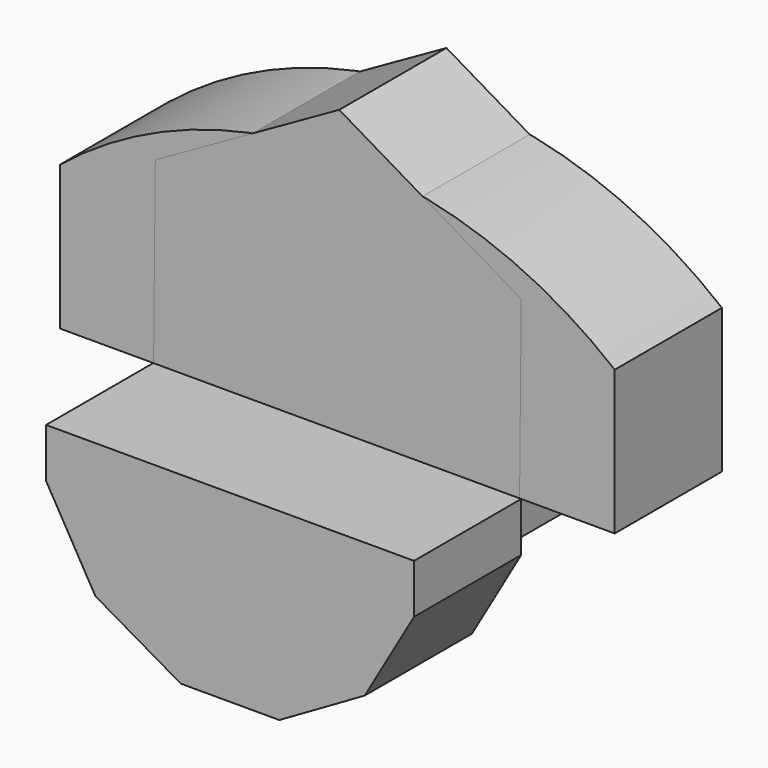
from build123d import *

# Parameters (mm, degrees)
F0_W     = 105.172158
F0_H     = 27.329684
F1_DEPTH = 25.4
F3_DEPTH = 25.4
F5_DEPTH = 25.4


with BuildPart() as f1:
    # F0 (on Front) → F1 (new body)
    with BuildSketch(Plane.XZ):
        Rectangle(F0_W, F0_H)
        with BuildLine():
            Line((-52.586079, 13.664842), (52.586079, 13.664842))
            ThreePointArc((52.586079, 13.664842), (0, 32.342827), (-52.586079, 13.664842))
        make_face()
    extrude(amount=F1_DEPTH)


with BuildPart() as f3:
    # F2 (on face) → F3 (new body)
    with BuildSketch(Plane.XZ.offset(25.4)):
        Polygon((-9.343094, -48.533744), (9.343094, -48.533744), (25.525808, -39.19065), (34.868903, -23.007936), (34.868903, -13.664842), (-34.868903, -13.664842), (-34.868903, -23.007936), (-25.525808, -39.19065), align=None)
    extrude(amount=F3_DEPTH)


with BuildPart() as f5:
    # F4 (on Front) → F5 (new body)
    with BuildSketch(Plane.XZ):
        Polygon((-34.491878, 20.349247), (-34.868903, -19.696219), (-0.377026, -40.045466), (34.491878, -20.349247), (34.868903, 19.696219), (0.377026, 40.045466), align=None)
    extrude(amount=F5_DEPTH)


solid = Compound([f1.part, f3.part, f5.part])
